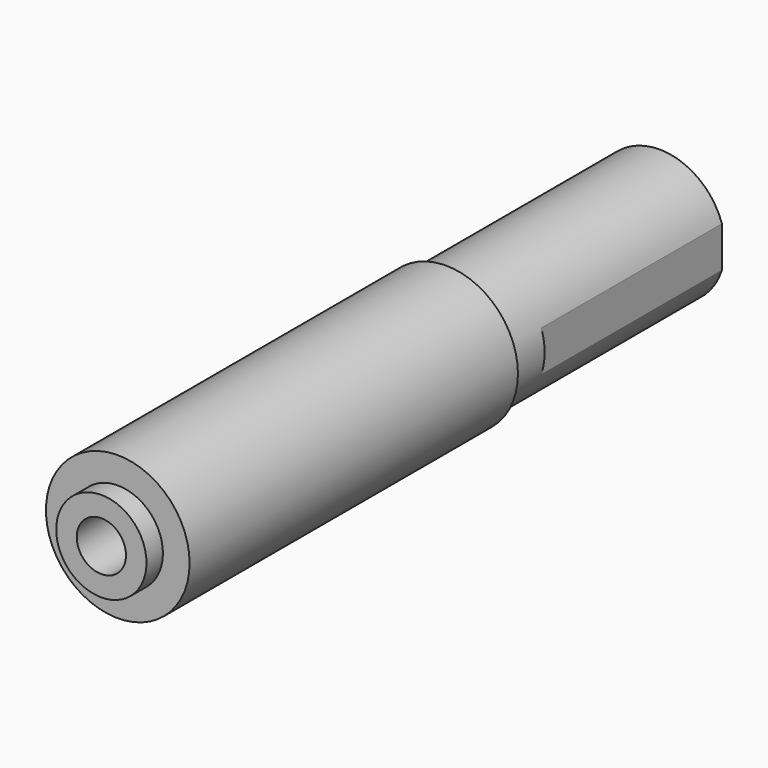
from build123d import *

# Parameters (mm, degrees)
F0_R     = 17.5
F1_DEPTH = 100
F2_R     = 11
F3_DEPTH = 5
F4_R     = 6
F5_DEPTH = 30
F6_R     = 16
F7_DEPTH = 65
F8_W     = 5.652177
F8_H     = 10
F9_DEPTH = 55


with BuildPart() as f1:
    # F0 (on Front) → F1 (new body)
    with BuildSketch(Plane.XZ):
        Circle(F0_R)
    extrude(amount=F1_DEPTH)

    # F2 (on face) → F3 (join)
    with BuildSketch(Plane.XZ.offset(100)):
        Circle(F2_R)
    extrude(amount=F3_DEPTH)

    # F4 (on face) → F5 (cut)
    with BuildSketch(Plane.XZ.offset(105)):
        Circle(F4_R)
    extrude(amount=-F5_DEPTH, mode=Mode.SUBTRACT)

    # F6 (on Front) → F7 (join)
    with BuildSketch(Plane.XZ):
        Circle(F6_R)
    extrude(amount=-F7_DEPTH)

    # F8 (on face) → F9 (cut)
    with BuildSketch(Plane(origin=(0, 65, 0), x_dir=(-1, 0, 0), z_dir=(0, 1, 0))):
        with Locations((-18.024772, 0)):
            Rectangle(F8_W, F8_H)
    extrude(amount=-F9_DEPTH, mode=Mode.SUBTRACT)


solid = f1.part
